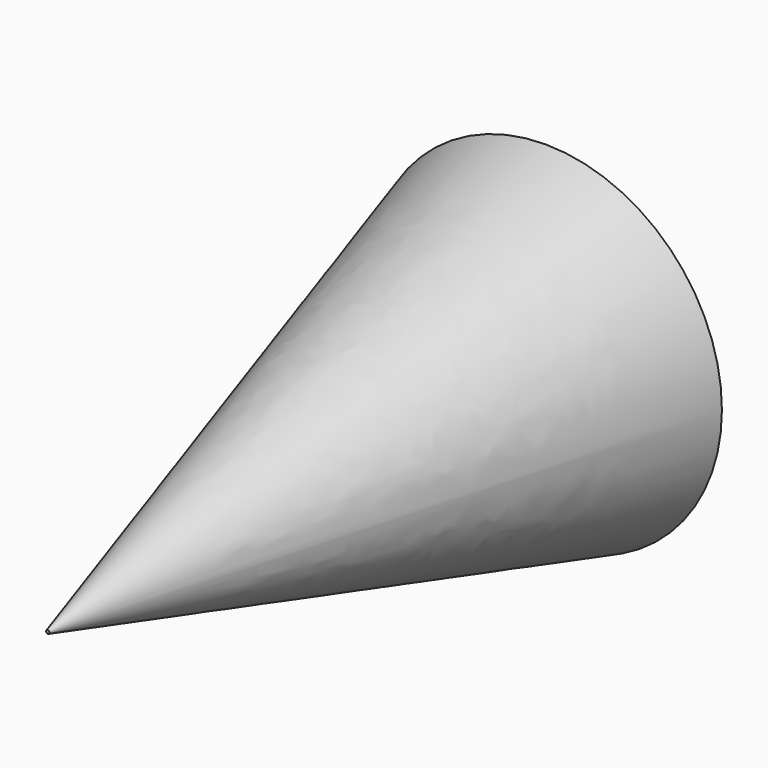
from build123d import *

# Parameters (mm, degrees)
F0_R = 6.26675
F2_R = 0.060394


with BuildPart() as f3:
    # F0 (on Front) → F3 section 0
    with BuildSketch(Plane.XZ):
        with Locations((-33.879068, 15.021851)):
            Circle(F0_R)
    # F2 (on offset) → F3 section 1
    with BuildSketch(Plane.XZ.offset(22.098)):
        with Locations((-33.878956, 15.023738)):
            Circle(F2_R)
    loft()


solid = f3.part
